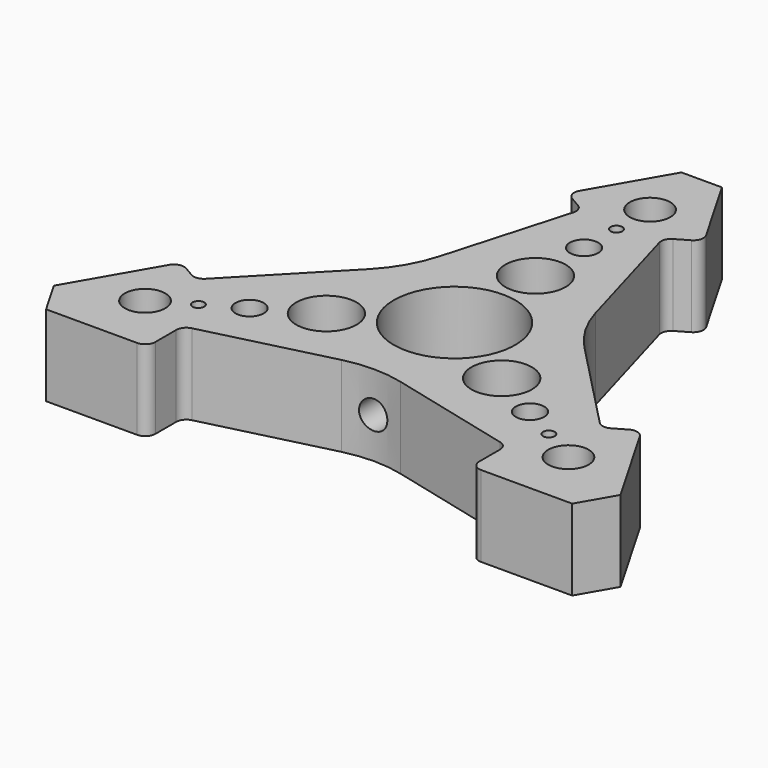
from build123d import *

# Parameters (mm, degrees)
F1_DEPTH  = 20
F2_SIZE   = 10
F4_D      = 10
F4_DEPTH  = 100
F4_TIP    = 3.0043030951
F7_D      = 30
F7_DEPTH  = 100
F7_TIP    = 9.0129092854
F9_DEPTH  = 25
F10_R     = 2.5
F11_R     = 30
F12_R     = 1.4529244662
F12_R_2   = 3.4937424226
F12_R_3   = 7.4684037046
F13_DEPTH = 25
F15_D     = 7
F15_DEPTH = 100
F15_TIP   = 2.1030121666


with BuildPart() as f1:
    # F0 (on Top) → F1 (new body)
    with BuildSketch(Plane.XY):
        Polygon((75, -44.9038105677), (0, 85), (-75, -44.9038105677), align=None)
    extrude(amount=F1_DEPTH)

    # F2
    f2_edges = [f1.edges().sort_by_distance(p)[0] for p in [
        (-75, -44.903811, 10),
        (75, -44.903811, 10),
        (0, 85, 10),
    ]]
    chamfer(f2_edges, length=F2_SIZE)

    # F4
    with Locations(Plane.XY.offset(20)):
        with Locations((0, 60.3995919228), (52.3075809833, -30.1997959614), (-52.3075809833, -30.1997959614)):
            Hole(F4_D / 2, depth=F4_DEPTH)
            with Locations((0, 0, -(F4_DEPTH + F4_TIP / 2))):  # 118° drill point
                Cone(0, F4_D / 2, F4_TIP, mode=Mode.SUBTRACT)

    # F7
    with Locations(Plane.XY.offset(20)):
        with Locations((0, 0)):
            Hole(F7_D / 2, depth=F7_DEPTH)
            with Locations((0, 0, -(F7_DEPTH + F7_TIP / 2))):  # 118° drill point
                Cone(0, F7_D / 2, F7_TIP, mode=Mode.SUBTRACT)

    # F8 (on face) → F9 (cut)
    with BuildSketch(Plane.XY.offset(20)):
        Polygon((40, -34), (0, -24), (0, -48), (40, -48), align=None)
        Polygon((0, -48), (0, -24), (-40, -34), (-40, -48), align=None)
        Polygon((49.4448637287, -16.6410161514), (61.5692193817, -9.6410161514), (41.5692193817, 25), (20.7846096908, 13), align=None)
        Polygon((20.7846096908, 13), (41.5692193817, 25), (21.5692193817, 59.6410161514), (9.4448637287, 52.6410161514), align=None)
        Polygon((-10.3108891325, 52.1410161514), (-22.4352447854, 59.1410161514), (-42.4352447854, 24.5), (-21.6506350946, 12.5), align=None)
        Polygon((-21.6506350946, 12.5), (-42.4352447854, 24.5), (-62.4352447854, -10.1410161514), (-50.3108891325, -17.1410161514), align=None)
    extrude(amount=-F9_DEPTH, mode=Mode.SUBTRACT)

    # F10
    f10_edges = [f1.edges().sort_by_distance(p)[0] for p in [
        (-40, -34, 10),
        (-50.310889, -17.141016, 10),
        (-10.310889, 52.141016, 10),
        (9.444864, 52.641016, 10),
        (49.444864, -16.641016, 10),
        (40, -34, 10),
        (40, -44.903811, 10),
        (56.373067, -12.641016, 10),
        (16.373067, 56.641016, 10),
        (-16.80608, 55.891016, 10),
        (-56.80608, -13.391016, 10),
        (-40, -44.903811, 10),
    ]]
    fillet(f10_edges, radius=F10_R)

    # F11
    f11_edges = [f1.edges().sort_by_distance(p)[0] for p in [
        (0, -24, 10),
        (20.78461, 13, 10),
        (-21.650635, 12.5, 10),
    ]]
    fillet(f11_edges, radius=F11_R)

    # F12 (on face) → F13 (cut)
    with BuildSketch(Plane.XY.offset(20)):
        with Locations((0, 50)):
            Circle(F12_R)
        with Locations((0, 40)):
            Circle(F12_R_2)
        with Locations((0, 25)):
            Circle(F12_R_3)
        with Locations((-34.6410161514, -20)):
            Circle(F12_R_2)
        with Locations((-21.6506350946, -12.5)):
            Circle(F12_R_3)
        with Locations((-43.3012701892, -25)):
            Circle(F12_R)
        with Locations((34.6410161514, -20)):
            Circle(F12_R_2)
        with Locations((21.6506350946, -12.5)):
            Circle(F12_R_3)
        with Locations((43.3012701892, -25)):
            Circle(F12_R)
    extrude(amount=-F13_DEPTH, mode=Mode.SUBTRACT)

    # F15 (one way)
    with BuildSketch(Plane(origin=(0, 0, 0), x_dir=(1, 0, 0), z_dir=(0, 1, 0))):
        with Locations((0, -10.0512299687)):
            Circle(F15_D / 2)
    extrude(amount=-F15_DEPTH, mode=Mode.SUBTRACT)
    with Locations(Plane(origin=(0, 0, 0), x_dir=(1, 0, 0), z_dir=(0, 1, 0))):
        with Locations((0, -10.0512299687)):
            with Locations((0, 0, -(F15_DEPTH + F15_TIP / 2))):  # 118° drill point
                Cone(0, F15_D / 2, F15_TIP, mode=Mode.SUBTRACT)


solid = f1.part
